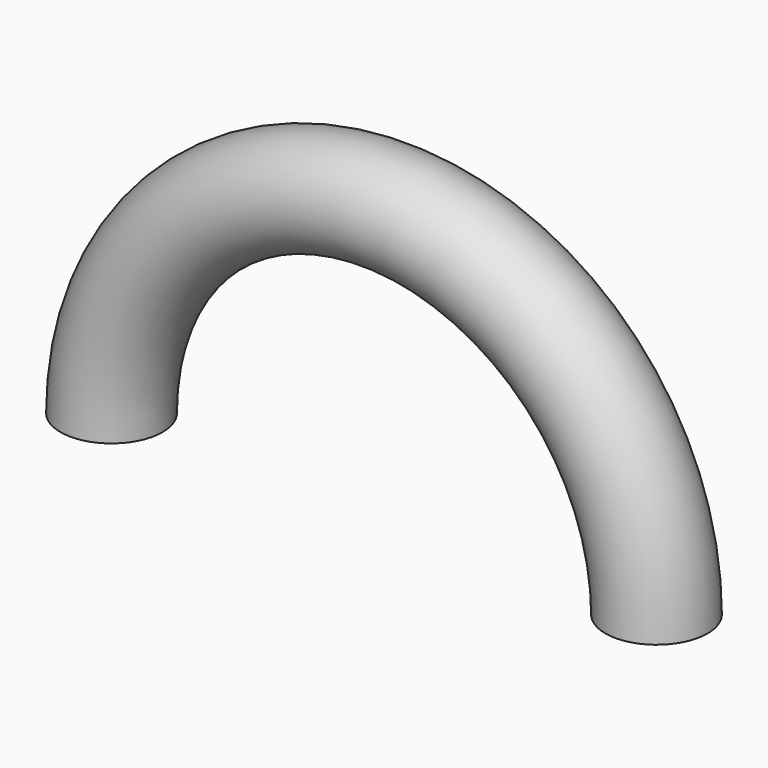
from build123d import *

# Parameters (mm, degrees)
F0_R     = 4.7625
F1_ANGLE = 180


with BuildPart() as f1:
    # F0 (on Top) → F1 (revolve)
    with BuildSketch(Plane.XY):
        with Locations((-25.4, 0)):
            Circle(F0_R)
    revolve(axis=Axis((0, -11.05636, 0), (0, 1, 0)), revolution_arc=F1_ANGLE)


solid = f1.part
